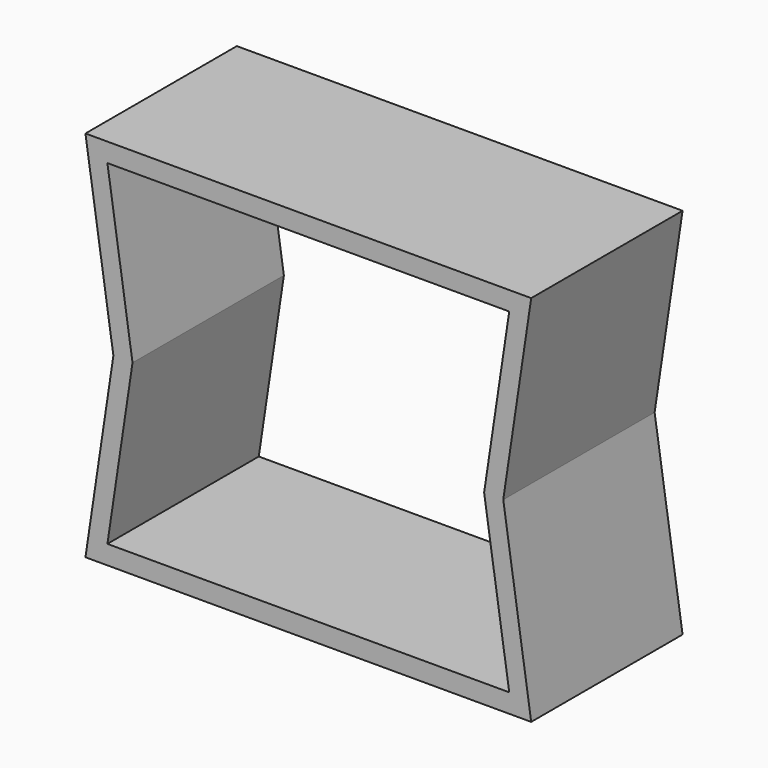
from build123d import *

# Parameters (mm, degrees)
F1_DEPTH = 25


with BuildPart() as f1:
    # F0 (on Front) → F1 (new body)
    with BuildSketch(Plane.XZ):
        Polygon((-29.447242, -24.64678), (0, -24.64678), (29.447242, -24.64678), (25.755192, 0), (29.447242, 24.64678), (0, 24.64678), (-29.447242, 24.64678), (-25.755192, 0), align=None)
        Polygon((26.544852, -22.14678), (0, -22.14678), (-26.544852, -22.14678), (-23.227298, 0), (-26.544852, 22.14678), (0, 22.14678), (26.544852, 22.14678), (23.227298, 0), align=None, mode=Mode.SUBTRACT)
    extrude(amount=F1_DEPTH)


solid = f1.part
